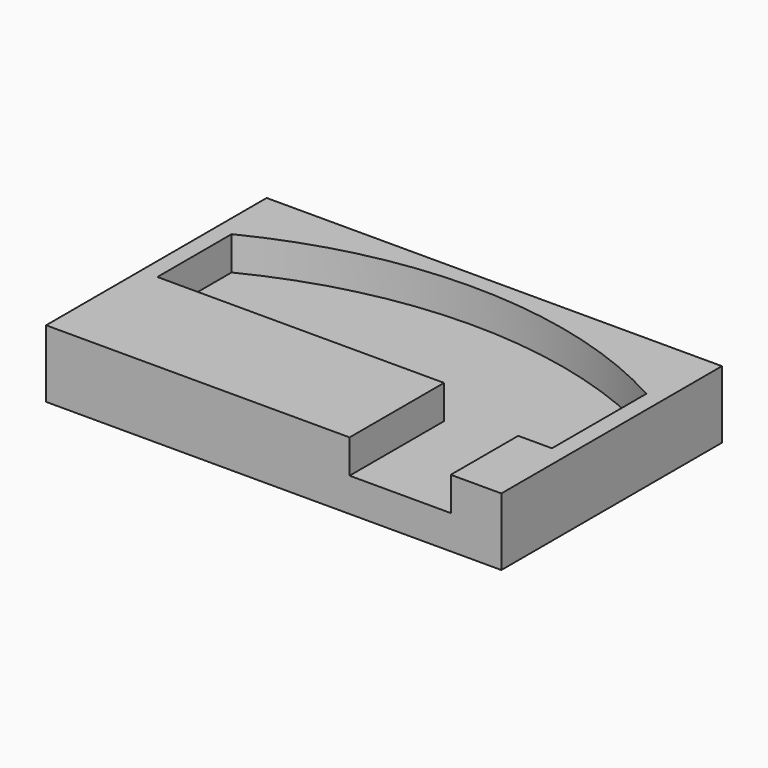
from build123d import *

# Parameters (mm, degrees)
F1_DEPTH = 12.7
F2_W     = 171.45
F2_H     = 103.8304664585
F3_DEPTH = 25.4
F4_DEPTH = 25.4
F5_W     = 38.1
F5_H     = 6.35
F6_DEPTH = 12.7


with BuildPart() as f1:
    # F0 (on Top) → F1 (new body)
    with BuildSketch(Plane.XY):
        with BuildLine():
            Line((65.9010224927, -54.4816457485), (65.9010224927, -29.0816457485))
            Line((65.9010224927, -29.0816457485), (78.6010224927, -29.0816457485))
            Line((78.6010224927, -29.0816457485), (78.6010224927, 15.3683542515))
            ThreePointArc((78.6010224927, 15.3683542515), (-0.3807983971, 36.6148097647), (-80.1489775073, 18.5433542515))
            Line((-80.1489775073, 18.5433542515), (-80.1489775073, -16.3816457485))
            Line((-80.1489775073, -16.3816457485), (27.8010224927, -16.3816457485))
            Line((27.8010224927, -16.3816457485), (27.8010224927, -54.4816457485))
            Line((27.8010224927, -54.4816457485), (65.9010224927, -54.4816457485))
        make_face()
    extrude(amount=F1_DEPTH)

    # F2 (on face) → F3 (join)
    with BuildSketch(Plane(origin=(0, 0, 0), x_dir=(1, 0, 0), z_dir=(0, 0, -1))):
        with Locations((-0.7739775073, 8.9164125192)):
            Rectangle(F2_W, F2_H)
    extrude(amount=F3_DEPTH)

    # F4 (cut): a face of the model
    f4_faces = [f1.faces().sort_by_distance(p)[0] for p in [
        (7.501284612, -0.1265709207, 12.7),
    ]]
    extrude(f4_faces, amount=-F4_DEPTH, mode=Mode.SUBTRACT)

    # F5 (on face) → F6 (cut)
    with BuildSketch(Plane.XY):
        with Locations((46.8510224927, -57.6566457485)):
            Rectangle(F5_W, F5_H)
    extrude(amount=-F6_DEPTH, mode=Mode.SUBTRACT)


solid = f1.part
